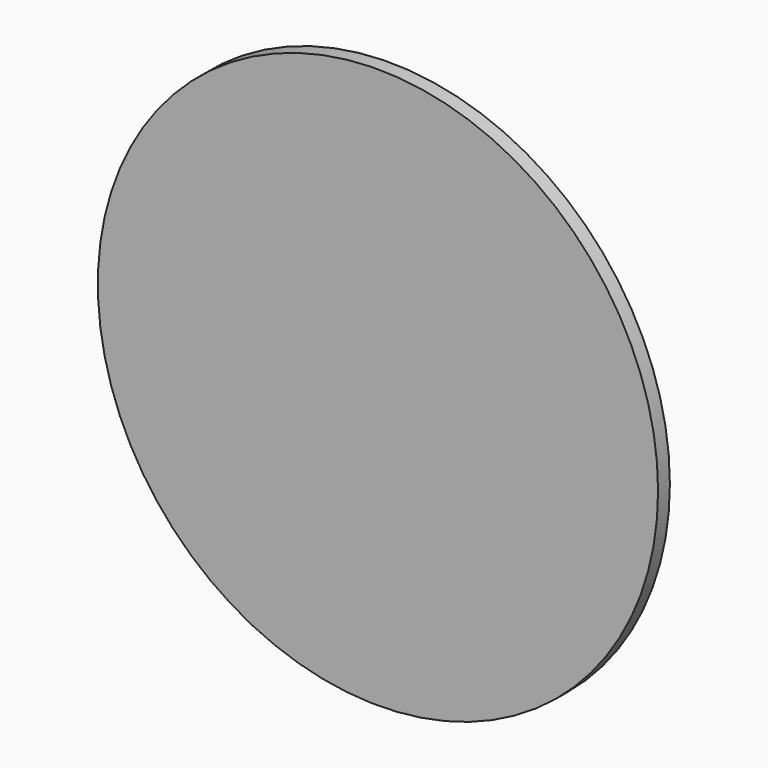
from build123d import *

# Parameters (mm, degrees)
F0_W     = 368.677914
F0_H     = 204.665296
F1_DEPTH = 12.7
F2_W     = 368.677914
F2_H     = 204.665296
F2_R     = 96.2279
F3_DEPTH = 12.7
F4_DEPTH = 7.62


with BuildPart() as f1:
    # F0 (on Front) → F1 (new body)
    with BuildSketch(Plane.XZ):
        with Locations((0.233635, 0.70091)):
            Rectangle(F0_W, F0_H)
    extrude(amount=F1_DEPTH)

    # F2 (on face) → F3 (cut)
    with BuildSketch(Plane.XZ.offset(12.7)):
        with Locations((0.233635, 0.70091)):
            Rectangle(F2_W, F2_H)
        Circle(F2_R, mode=Mode.SUBTRACT)
    extrude(amount=-F3_DEPTH, mode=Mode.SUBTRACT)

    # F2 (on face) + F0 (on Front) → F4 (cut)
    with BuildSketch(Plane.XZ.offset(12.7)):
        Circle(F2_R)
    with BuildSketch(Plane.XZ):
        with Locations((0.233635, 0.70091)):
            Rectangle(F0_W, F0_H)
    extrude(amount=-F4_DEPTH, mode=Mode.SUBTRACT)


solid = f1.part
